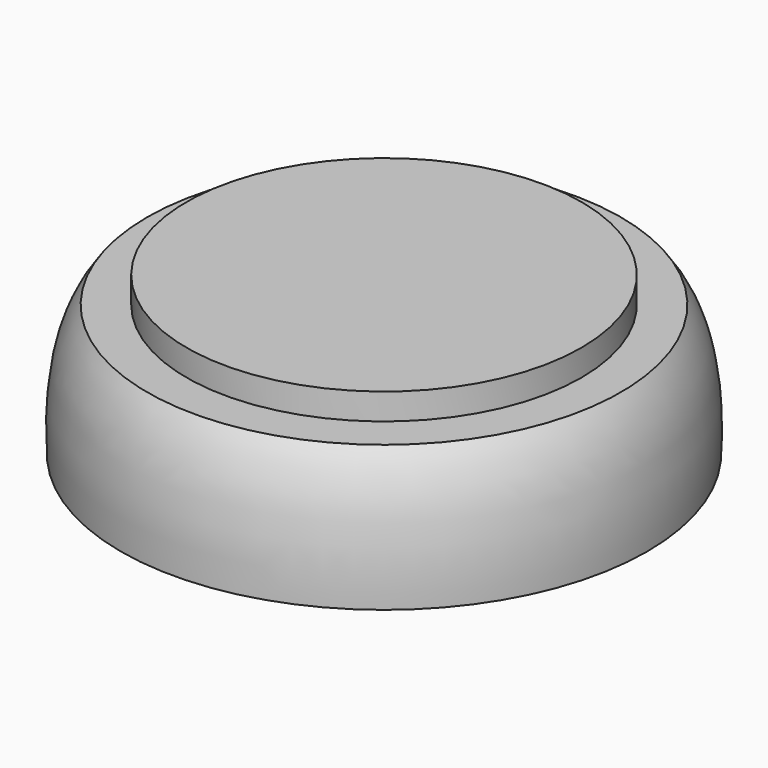
from build123d import *

# Parameters (mm, degrees)
SKETCH_R      = 7.5
EXTRUDE_DEPTH = 1


with BuildPart() as extrude_body:
    # Sketch → Extrude (new body)
    with BuildSketch(Plane.XY.offset(5)):
        Circle(SKETCH_R)
    extrude(amount=EXTRUDE_DEPTH)


with BuildPart() as fusion:
    # Sketch001 → Revolve (revolve)
    with BuildSketch(Plane.XZ):
        with BuildLine():
            Line((0, 0), (-10, 0))
            add(Edge.make_bspline(
                [(-9, 5), (-9.79, 3.99), (-10.13, 2.25), (-10, 0)],
                knots=[0, 0, 0, 0, 1, 1, 1, 1], degree=3))
            Line((-9, 5), (0, 5))
            Line((0, 5), (0, 0))
        make_face()
    revolve(axis=Axis((0, 0, 0), (0, 0, 1)))

    # Fusion: union Extrude body
    add(extrude_body.part)


solid = fusion.part
